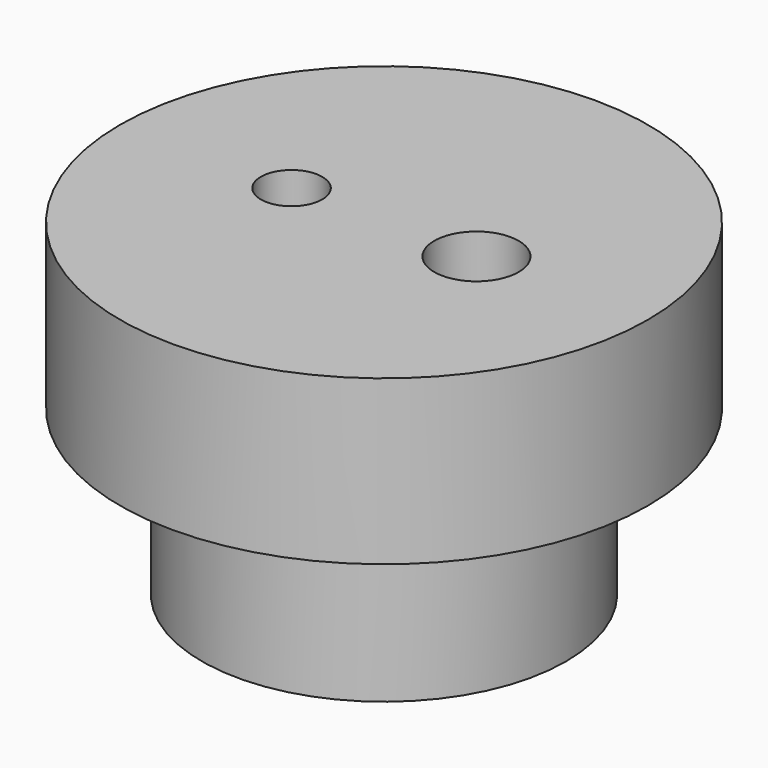
from build123d import *

# Parameters (mm, degrees)
F2_R          = 3.2766
F2_R_2        = 2.38125
F3_DEPTH      = 12.701
F3_DEPTH_BACK = 12.701


with BuildPart() as f1:
    # F0 (on Front) → F1 (revolve)
    with BuildSketch(Plane.XZ):
        Polygon((0, 12.7), (0, -12.7), (14.1351, -12.7), (14.1351, 0), (20.4851, 0), (20.4851, 12.7), align=None)
    revolve(axis=Axis((0, 0, 0), (0, 0, 1)))

    # F2 (on Top) → F3 (cut, two sides)
    with BuildSketch(Plane.XY) as f3_sk:
        with Locations((7.1755, 0)):
            Circle(F2_R)
        with Locations((-7.1755, 0)):
            Circle(F2_R_2)
    extrude(amount=-F3_DEPTH, mode=Mode.SUBTRACT)
    extrude(f3_sk.sketch, amount=F3_DEPTH_BACK, mode=Mode.SUBTRACT)


solid = f1.part
